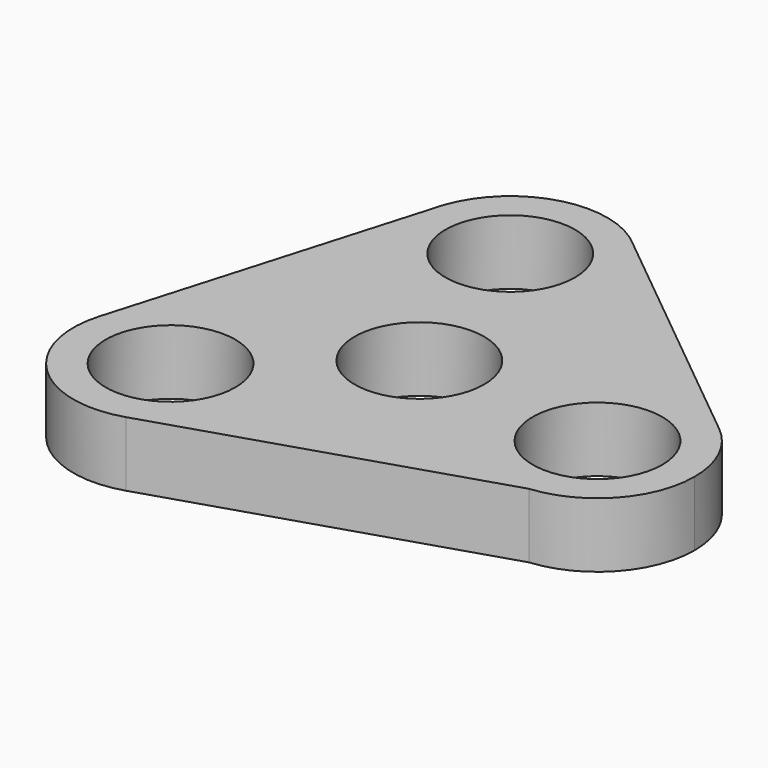
from build123d import *

# Parameters (mm, degrees)
F0_R     = 6.35
F1_DEPTH = 6.35


with BuildPart() as f1:
    # F0 (on Top) → F1 (new body)
    with BuildSketch(Plane.XY):
        with BuildLine():
            ThreePointArc((-53.1782564477, 41.6842693984), (-48.3327406635, 45.1317048361), (-46.4763714082, 50.7812824752))
            ThreePointArc((-46.4763714082, 50.7812824752), (-47.3162680415, 54.6921141654), (-49.6878369219, 57.9132462503))
            ThreePointArc((-49.6878369219, 57.9132462503), (-58.4100557825, 59.9966969849), (-64.9972519962, 53.911738903))
            Line((-64.9972519962, 53.911738903), (-65.2636588151, 53.0029163317))
            ThreePointArc((-65.2636588151, 53.0029163317), (-62.5124141472, 43.8291642763), (-53.1782564477, 41.6842693984))
        make_face()
        with Locations((-56.0013714082, 50.7812824752)):
            Circle(F0_R, mode=Mode.SUBTRACT)
        with BuildLine():
            Line((-65.2636588151, 53.0029163317), (-64.9972519962, 53.911738903))
            ThreePointArc((-64.9972519962, 53.911738903), (-65.1417578469, 53.4606407474), (-65.2636588151, 53.0029163317))
        make_face()
        with BuildLine():
            ThreePointArc((-21.8725080792, 30.7135868106), (-22.7936822086, 34.8001263475), (-25.3790288954, 38.096237643))
            ThreePointArc((-25.3790288954, 38.096237643), (-35.0554610731, 39.5081877051), (-40.8763247582, 31.6504215705))
            ThreePointArc((-40.8763247582, 31.6504215705), (-38.1559117236, 24.0016865446), (-30.5261420942, 21.2285277006))
            ThreePointArc((-30.5261420942, 21.2285277006), (-24.3609824448, 24.29385691), (-21.8725080792, 30.7135868106))
        make_face()
        with Locations((-31.3975080792, 30.7135868106)):
            Circle(F0_R, mode=Mode.SUBTRACT)
        with BuildLine():
            ThreePointArc((-55.3962625933, 20.3100166458), (-55.9742861224, 23.5776208185), (-57.638202127, 26.4486366246))
            ThreePointArc((-57.638202127, 26.4486366246), (-66.8844329452, 29.6305095066), (-74.061649032, 22.989374918))
            ThreePointArc((-74.061649032, 22.989374918), (-71.5818043374, 13.5009925839), (-62.0410610516, 11.2309162454))
            ThreePointArc((-62.0410610516, 11.2309162454), (-57.2349258623, 14.6845519842), (-55.3962625933, 20.3100166458))
        make_face()
        with Locations((-64.9212625933, 20.3100166458)):
            Circle(F0_R, mode=Mode.SUBTRACT)
        with BuildLine():
            ThreePointArc((-57.638202127, 26.4486366246), (-59.4965211645, 35.2632237636), (-53.1782564477, 41.6842693984))
            ThreePointArc((-53.1782564477, 41.6842693984), (-62.5124141472, 43.8291642763), (-65.2636588151, 53.0029163317))
            Line((-65.2636588151, 53.0029163317), (-74.061649032, 22.989374918))
            ThreePointArc((-74.061649032, 22.989374918), (-66.8844329452, 29.6305095066), (-57.638202127, 26.4486366246))
        make_face()
        with BuildLine():
            ThreePointArc((-49.6878369219, 57.9132462503), (-47.3162680415, 54.6921141654), (-46.4763714082, 50.7812824752))
            ThreePointArc((-46.4763714082, 50.7812824752), (-48.3327406635, 45.1317048361), (-53.1782564477, 41.6842693984))
            ThreePointArc((-53.1782564477, 41.6842693984), (-44.7055638187, 40.2558870979), (-40.8301414364, 32.5872563373))
            ThreePointArc((-40.8301414364, 32.5872563373), (-40.841694273, 32.1182701223), (-40.8763247582, 31.6504215705))
            ThreePointArc((-40.8763247582, 31.6504215705), (-35.0554610731, 39.5081877051), (-25.3790288954, 38.096237643))
            Line((-25.3790288954, 38.096237643), (-49.6878369219, 57.9132462503))
        make_face()
        with BuildLine():
            ThreePointArc((-40.8763247582, 31.6504215705), (-47.5320265353, 23.4902432421), (-57.638202127, 26.4486366246))
            ThreePointArc((-57.638202127, 26.4486366246), (-55.9742861224, 23.5776208185), (-55.3962625933, 20.3100166458))
            ThreePointArc((-55.3962625933, 20.3100166458), (-57.2349258623, 14.6845519842), (-62.0410610516, 11.2309162454))
            Line((-62.0410610516, 11.2309162454), (-30.5261420942, 21.2285277006))
            ThreePointArc((-30.5261420942, 21.2285277006), (-38.1559117236, 24.0016865446), (-40.8763247582, 31.6504215705))
        make_face()
        with BuildLine():
            ThreePointArc((-40.8301414364, 32.5872563373), (-44.7055638187, 40.2558870979), (-53.1782564477, 41.6842693984))
            ThreePointArc((-53.1782564477, 41.6842693984), (-59.4965211645, 35.2632237636), (-57.638202127, 26.4486366246))
            ThreePointArc((-57.638202127, 26.4486366246), (-47.5320265353, 23.4902432421), (-40.8763247582, 31.6504215705))
            ThreePointArc((-40.8763247582, 31.6504215705), (-40.841694273, 32.1182701223), (-40.8301414364, 32.5872563373))
        make_face()
        with Locations((-50.3551414364, 32.5872563373)):
            Circle(F0_R, mode=Mode.SUBTRACT)
    extrude(amount=F1_DEPTH)


solid = f1.part
